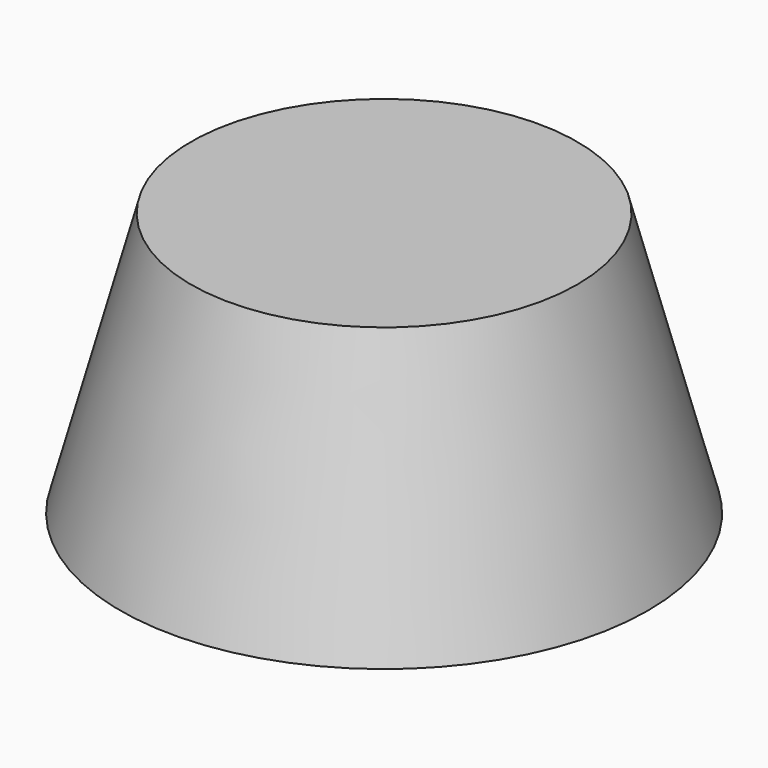
from build123d import *

# Parameters (mm, degrees)
SKETCH_R        = 25
PAD_DEPTH       = 25
PAD_TAPER       = 15
SKETCH001_R     = 17.5
POCKET_DEPTH    = 20
POCKET_TAPER    = 15
SKETCH002_R     = 10
PAD001_DEPTH    = 20
PAD001_TAPER    = 18
SKETCH003_R     = 1.5
POCKET001_DEPTH = 17


with BuildPart() as part:
    # Sketch → Pad (new body)
    with BuildSketch(Plane.XY):
        Circle(SKETCH_R)
    extrude(amount=PAD_DEPTH, taper=PAD_TAPER)

    # Sketch001 (on Face2 of Pad) → Pocket (cut)
    with BuildSketch(Plane(origin=(0, 0, 0), x_dir=(1, 0, 0), z_dir=(0, 0, -1))):
        Circle(SKETCH001_R)
    extrude(amount=-POCKET_DEPTH, taper=POCKET_TAPER, mode=Mode.SUBTRACT)

    # Sketch002 (on Face5 of Pocket) → Pad001 (join)
    with BuildSketch(Plane(origin=(0, 0, 20), x_dir=(1, 0, 0), z_dir=(0, 0, -1))):
        Circle(SKETCH002_R)
    extrude(amount=PAD001_DEPTH, taper=PAD001_TAPER)

    # Sketch003 (on Face7 of Pad001) → Pocket001 (cut)
    with BuildSketch(Plane(origin=(0, 0, 0), x_dir=(1, 0, 0), z_dir=(0, 0, -1))):
        Circle(SKETCH003_R)
    extrude(amount=-POCKET001_DEPTH, mode=Mode.SUBTRACT)


solid = part.part
